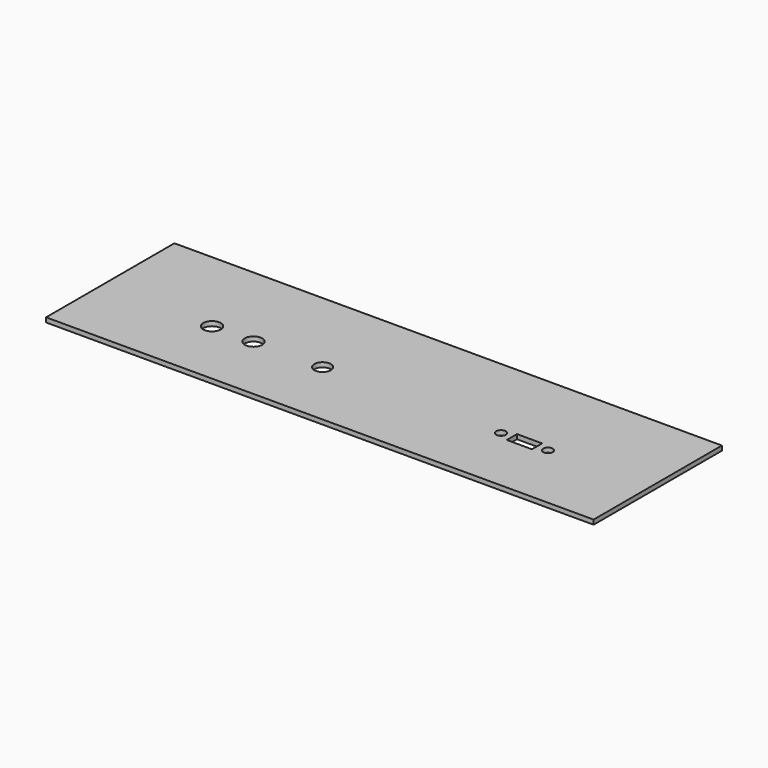
from build123d import *

# Parameters (mm, degrees)
SKETCH_W      = 198
SKETCH_H      = 58
PAD_DEPTH     = 1.65
SKETCH001_R   = 1.75
SKETCH001_R_2 = 3
SKETCH001_R_3 = 3.175
SKETCH001_W   = 9.1
SKETCH001_H   = 4.6
POCKET_DEPTH  = 5


with BuildPart() as part:
    # Sketch → Pad (new body)
    with BuildSketch(Plane.XY):
        with Locations((99, 29)):
            Rectangle(SKETCH_W, SKETCH_H)
    extrude(amount=PAD_DEPTH)

    # Sketch001 (on Face6 of Pad) → Pocket (cut)
    with BuildSketch(Plane.XY.offset(1.65)):
        with Locations((144.5, 25)):
            Circle(SKETCH001_R)
        with Locations((161.5, 25)):
            Circle(SKETCH001_R)
        with Locations((80, 25)):
            Circle(SKETCH001_R_2)
        with Locations((40, 25)):
            Circle(SKETCH001_R_3)
        with Locations((55, 25)):
            Circle(SKETCH001_R_3)
        with Locations((153, 25)):
            Rectangle(SKETCH001_W, SKETCH001_H)
    extrude(amount=-POCKET_DEPTH, mode=Mode.SUBTRACT)


solid = part.part
